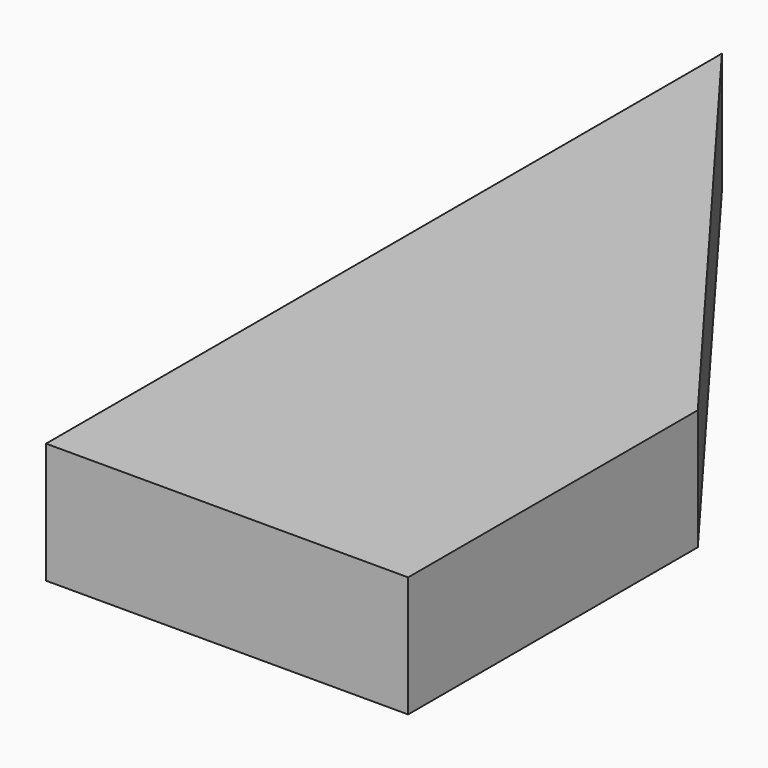
from build123d import *

# Parameters (mm, degrees)
F0_W     = 30
F0_H     = 30
F1_DEPTH = 10


with BuildPart() as f1:
    # F0 (on Top) → F1 (new body)
    with BuildSketch(Plane.XY):
        Polygon((-55.645935, 4.280385), (-55.645935, -35.719615), (-25.645935, -35.719615), align=None)
        with Locations((-40.645935, -50.719615)):
            Rectangle(F0_W, F0_H)
    extrude(amount=F1_DEPTH)


solid = f1.part
